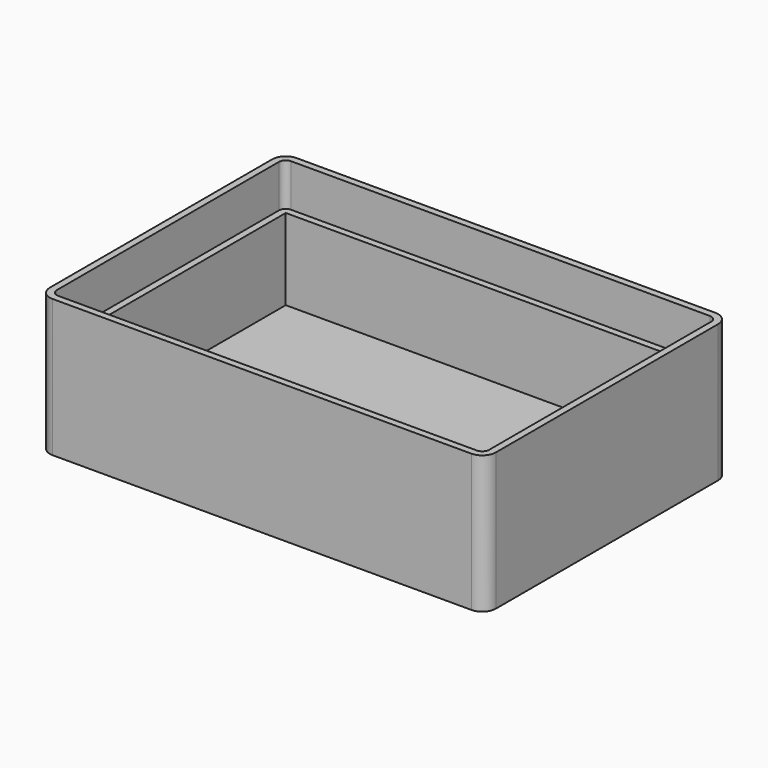
from build123d import *

# Parameters (mm, degrees)
F3_W     = 104.4
F3_H     = 71.4
F6_DEPTH = 32.2
F4_W     = 101.2
F4_H     = 68.2
F7_DEPTH = 10
F5_W     = 98
F5_H     = 65
F8_DEPTH = 29
F9_R     = 3.2
F10_R    = 1.6


with BuildPart() as f6:
    # F3 (on Top) → F6 (new body)
    with BuildSketch(Plane.XY):
        Rectangle(F3_W, F3_H)
    extrude(amount=-F6_DEPTH)

    # F4 (on Top) → F7 (cut)
    with BuildSketch(Plane.XY):
        Rectangle(F4_W, F4_H)
    extrude(amount=-F7_DEPTH, mode=Mode.SUBTRACT)

    # F5 (on Top) → F8 (cut)
    with BuildSketch(Plane.XY):
        Rectangle(F5_W, F5_H)
    extrude(amount=-F8_DEPTH, mode=Mode.SUBTRACT)

    # F9
    f9_edges = [f6.edges().sort_by_distance(p)[0] for p in [
        (-52.2, -35.7, -16.1),
        (52.2, -35.7, -16.1),
        (52.2, 35.7, -16.1),
        (-52.2, 35.7, -16.1),
    ]]
    fillet(f9_edges, radius=F9_R)

    # F10
    f10_edges = [f6.edges().sort_by_distance(p)[0] for p in [
        (-50.6, 34.1, -5),
        (-50.6, -34.1, -5),
        (50.6, 34.1, -5),
        (50.6, -34.1, -5),
    ]]
    fillet(f10_edges, radius=F10_R)


solid = f6.part
